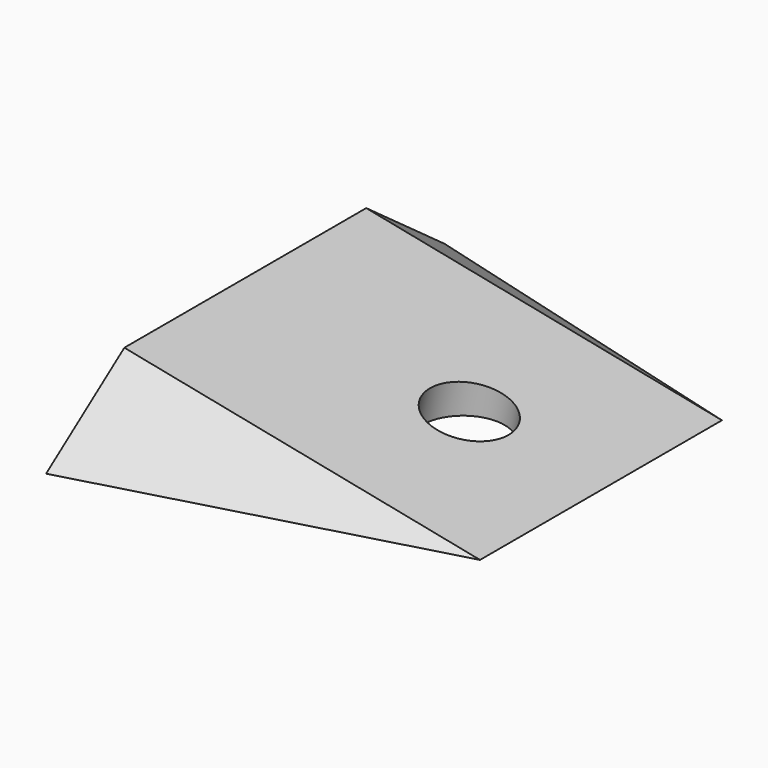
from build123d import *

# Parameters (mm, degrees)
F3_DEPTH  = 20
F4_DEPTH  = 25
F6_DEPTH  = 12.5
F8_W      = 30.1884743385
F8_H      = 13.3378984174
F9_DEPTH  = 25
F11_W     = 24.1160430014
F11_H     = 17.3639170825
F12_DEPTH = 25
F13_R     = 2.25
F14_DEPTH = 25


with BuildPart() as f3:
    # F2 (on line) → F3 (new body)
    with BuildSketch(Plane.YZ.offset(-20)):
        Polygon((-14, 0), (14, 0), (8.5, 4), (-8.5, 4), align=None)
    extrude(amount=F3_DEPTH)

    # F0 (on Top) → F4 (cut)
    with BuildSketch(Plane.XY):
        Polygon((0, -14), (0, -8.5), (-20, -14), align=None)
        Polygon((-20, 14), (0, 8.5), (0, 14), align=None)
    extrude(amount=F4_DEPTH, mode=Mode.SUBTRACT)

    # F5 (on Front) → F6 (cut, symmetric)
    with BuildSketch(Plane.XZ):
        Polygon((-20, 4), (0, 0), (0, 4), align=None)
    extrude(amount=F6_DEPTH, both=True, mode=Mode.SUBTRACT)

    # F8 (on 3pt) → F9 (cut)
    with BuildSketch(Plane(origin=(0.788032027, 2.8655710072, 3.9401601349), x_dir=(0.9871701202, -0.0939145628, -0.1291325238), z_dir=(0.1596720195, 0.5806255255, 0.7983600975))):
        with Locations((-12.3789033387, 7.5781916385)):
            Rectangle(F8_W, F8_H)
    extrude(amount=F9_DEPTH, mode=Mode.SUBTRACT)

    # F11 (on 3pt) → F12 (cut)
    with BuildSketch(Plane(origin=(0.788032027, -2.8655710072, 3.9401601349), x_dir=(0.9871701202, 0.0939145628, -0.1291325238), z_dir=(0.1596720195, -0.5806255255, 0.7983600975))):
        with Locations((-12.0580215007, -6.2219202518)):
            Rectangle(F11_W, F11_H)
    extrude(amount=F12_DEPTH, mode=Mode.SUBTRACT)

    # F13 (on face) → F14 (cut)
    with BuildSketch(Plane(origin=(0, 0, 0), x_dir=(0.9805806757, 0, -0.1961161351), z_dir=(0.1961161351, 0, 0.9805806757))):
        with Locations((-7.55, 0)):
            Circle(F13_R)
    extrude(amount=-F14_DEPTH, mode=Mode.SUBTRACT)


solid = f3.part
